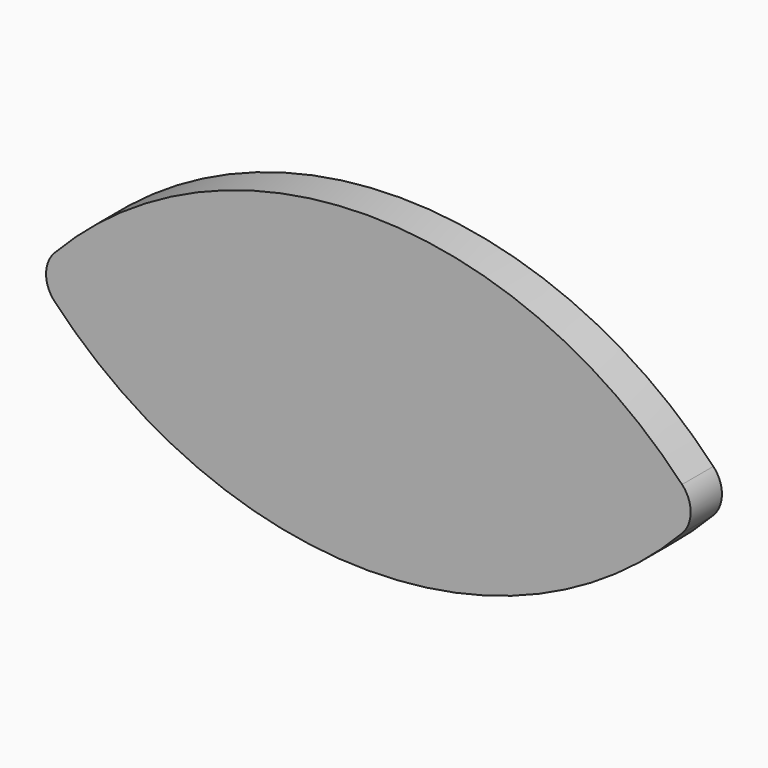
from build123d import *

# Parameters (mm, degrees)
F1_DEPTH = 3.175
F2_R     = 2.54
F3_R     = 2.54


with BuildPart() as f1:
    # F0 (on Front) → F1 (new body)
    with BuildSketch(Plane.XZ):
        with BuildLine():
            ThreePointArc((-257.224470377, -23.4096460044), (-230.192520377, -36.1096460044), (-203.160570377, -23.4096460044))
            ThreePointArc((-203.160570377, -23.4096460044), (-230.192520377, -10.7096460044), (-257.224470377, -23.4096460044))
        make_face()
    extrude(amount=F1_DEPTH)

    # F2
    f2_edges = [f1.edges().sort_by_distance(p)[0] for p in [
        (-203.16057, -1.5875, -23.409646),
    ]]
    fillet(f2_edges, radius=F2_R)

    # F3
    f3_edges = [f1.edges().sort_by_distance(p)[0] for p in [
        (-257.22447, -1.5875, -23.409646),
    ]]
    fillet(f3_edges, radius=F3_R)


solid = f1.part
